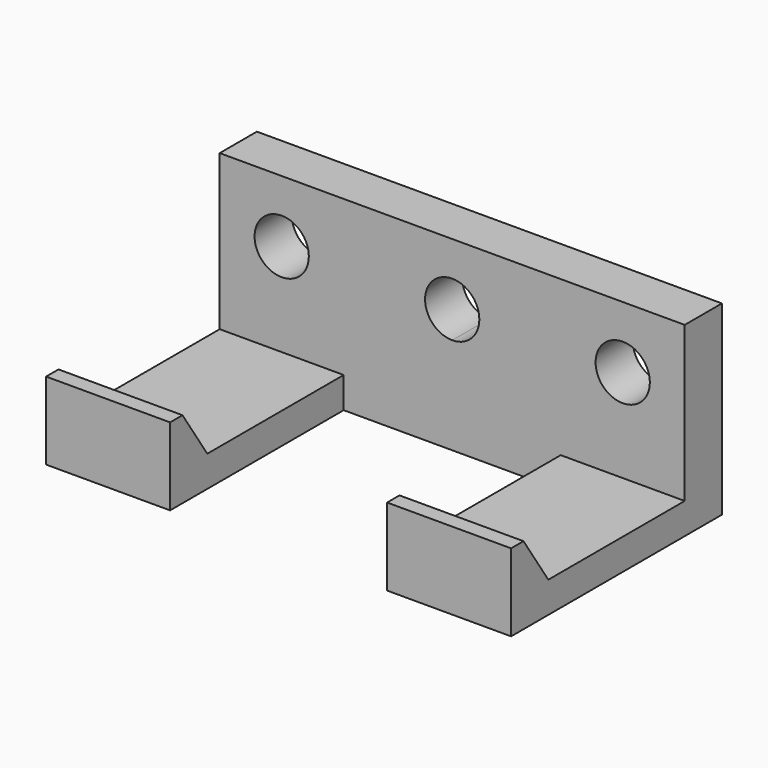
from build123d import *

# Parameters (mm, degrees)
F0_W     = 8
F0_H     = 14
F1_DEPTH = 2
F3_DEPTH = 10
F4_R     = 1.75
F5_DEPTH = 25
F7_DEPTH = 30
F8_W     = 14
F8_H     = 3
F9_DEPTH = 25


with BuildPart() as f1:
    # F0 (on Top) → F1 (new body)
    with BuildSketch(Plane.XY):
        with Locations((-26, -7)):
            Rectangle(F0_W, F0_H)
        Polygon((-22, 0), (-15, 0), (-15, 3), (-30, 3), (-30, 0), align=None)
        Polygon((-8, 0), (0, 0), (0, 3), (-15, 3), (-15, 0), align=None)
        with Locations((-4, -7)):
            Rectangle(F0_W, F0_H)
    extrude(amount=F1_DEPTH)

    # F2 (on face) → F3 (join)
    with BuildSketch(Plane.XY.offset(2)):
        Polygon((0, 3), (-30, 3), (-30, 0), (-22, 0), (-8, 0), (0, 0), align=None)
    extrude(amount=F3_DEPTH)

    # F4 (on face) → F5 (cut)
    with BuildSketch(Plane.XZ):
        with Locations((-26, 8)):
            Circle(F4_R)
        with BuildLine():
            Line((-15, 6.25), (-15, 9.75))
            ThreePointArc((-15, 9.75), (-16.75, 8), (-15, 6.25))
        make_face()
        with BuildLine():
            ThreePointArc((-13.25, 8), (-13.7625631329, 9.2374368671), (-15, 9.75))
            Line((-15, 9.75), (-15, 6.25))
            ThreePointArc((-15, 6.25), (-13.7625631329, 6.7625631329), (-13.25, 8))
        make_face()
        with Locations((-4, 8)):
            Circle(F4_R)
    extrude(amount=-F5_DEPTH, mode=Mode.SUBTRACT)

    # F6 (on face) → F7 (join)
    with BuildSketch(Plane(origin=(-30, 0, 0), x_dir=(0, -1, 0), z_dir=(-1, 0, 0))):
        Polygon((11, 2), (14, 2), (14, 5), (13, 5), align=None)
    extrude(amount=-F7_DEPTH)

    # F8 (on face) → F9 (cut)
    with BuildSketch(Plane(origin=(0, 0, 2), x_dir=(1, 0, 0), z_dir=(0, 0, -1))):
        with Locations((-15, 12.5)):
            Rectangle(F8_W, F8_H)
    extrude(amount=-F9_DEPTH, mode=Mode.SUBTRACT)


solid = f1.part
